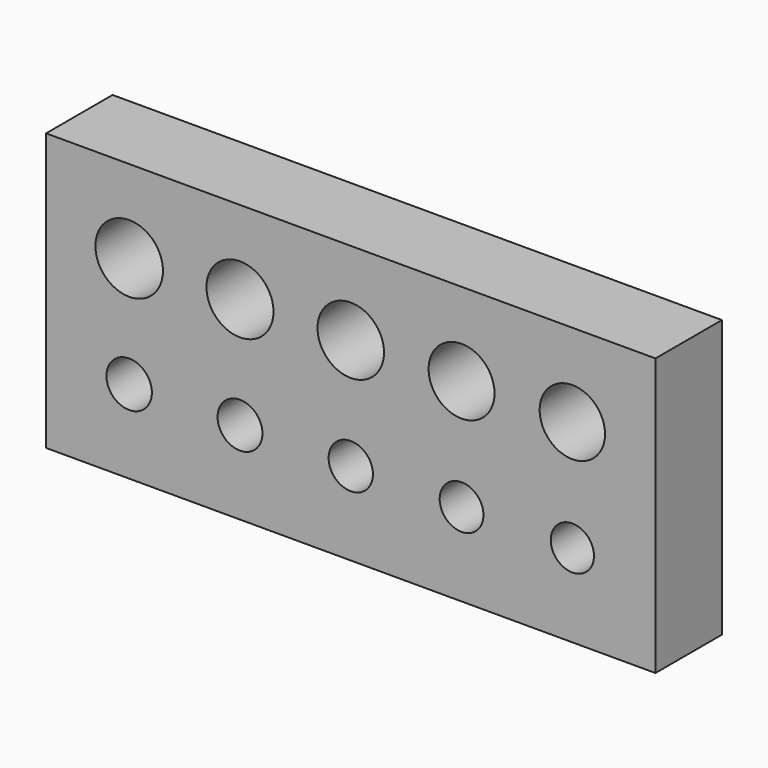
from build123d import *

# Parameters (mm, degrees)
F0_W     = 110
F0_H     = 50
F0_R     = 4.1
F0_R_2   = 4.05
F0_R_3   = 4
F0_R_4   = 3.95
F0_R_5   = 3.9
F0_R_6   = 6.1
F0_R_7   = 6.05
F0_R_8   = 6
F0_R_9   = 5.95
F0_R_10  = 5.9
F1_DEPTH = 15


with BuildPart() as f1:
    # F0 (on Front) → F1 (new body)
    with BuildSketch(Plane.XZ):
        Rectangle(F0_W, F0_H)
        with Locations((-40, -10)):
            Circle(F0_R, mode=Mode.SUBTRACT)
        with Locations((-20, -10)):
            Circle(F0_R_2, mode=Mode.SUBTRACT)
        with Locations((0, -10)):
            Circle(F0_R_3, mode=Mode.SUBTRACT)
        with Locations((20, -10)):
            Circle(F0_R_4, mode=Mode.SUBTRACT)
        with Locations((40, -10)):
            Circle(F0_R_5, mode=Mode.SUBTRACT)
        with Locations((-40, 10)):
            Circle(F0_R_6, mode=Mode.SUBTRACT)
        with Locations((-20, 10)):
            Circle(F0_R_7, mode=Mode.SUBTRACT)
        with Locations((0, 10)):
            Circle(F0_R_8, mode=Mode.SUBTRACT)
        with Locations((20, 10)):
            Circle(F0_R_9, mode=Mode.SUBTRACT)
        with Locations((40, 10)):
            Circle(F0_R_10, mode=Mode.SUBTRACT)
    extrude(amount=F1_DEPTH)


solid = f1.part
